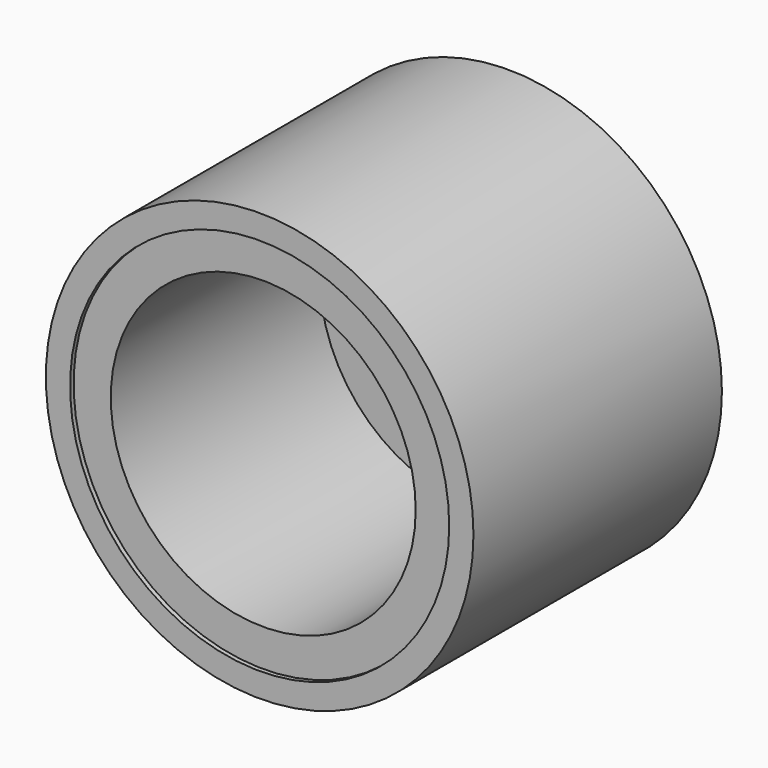
from build123d import *

# Parameters (mm, degrees)
F0_R      = 24.3051606916
F1_DEPTH  = 5.08
F2_R      = 24.3051606916
F2_R_2    = 21.5505163445
F5_DEPTH  = 2.286
F4_R      = 21.5505163445
F4_R_2    = 17.3332692352
F6_DEPTH  = 1.778
F3_R      = 6.0083606655
F7_DEPTH  = 1.27
F8_R      = 1.4809931101
F9_DEPTH  = 2.54
F10_R     = 2.7483891527
F11_DEPTH = 25.4
F12_DEPTH = 27.94


with BuildPart() as f1:
    # F0 (on Front) → F1 (new body)
    with BuildSketch(Plane.XZ):
        Circle(F0_R)
    extrude(amount=F1_DEPTH)

    # F2 (on face) → F5 (join)
    with BuildSketch(Plane.XZ.offset(5.08)):
        Circle(F2_R)
        Circle(F2_R_2, mode=Mode.SUBTRACT)
    extrude(amount=F5_DEPTH)

    # F4 (on face) → F6 (join)
    with BuildSketch(Plane.XZ.offset(5.08)):
        Circle(F4_R)
        Circle(F4_R_2, mode=Mode.SUBTRACT)
    extrude(amount=F6_DEPTH)

    # F3 (on face) → F7 (join)
    with BuildSketch(Plane.XZ.offset(5.08)):
        Circle(F3_R)
    extrude(amount=F7_DEPTH)

    # F8 (on face) → F9 (join)
    with BuildSketch(Plane.XZ.offset(6.35)):
        Circle(F8_R)
    extrude(amount=F9_DEPTH)

    # F10 (on face) → F11 (cut)
    with BuildSketch(Plane.XZ.offset(5.08)):
        with Locations((0, 10.771388188)):
            Circle(F10_R)
        with Locations((7.6165216305, 7.6165216305)):
            Circle(F10_R)
        with Locations((10.771388188, 0)):
            Circle(F10_R)
        with Locations((7.6165216305, -7.6165216305)):
            Circle(F10_R)
        with Locations((0, -10.771388188)):
            Circle(F10_R)
        with Locations((-7.6165216305, -7.6165216305)):
            Circle(F10_R)
        with Locations((-10.771388188, 0)):
            Circle(F10_R)
        with Locations((-7.6165216305, 7.6165216305)):
            Circle(F10_R)
    extrude(amount=-F11_DEPTH, mode=Mode.SUBTRACT)

    # F12 (add): faces of the model
    f12_faces = [f1.faces().sort_by_distance(p)[0] for p in [
        (-20.9409756947, -6.858, 0),
        (-23.6177069339, -7.366, 0),
    ]]
    extrude(f12_faces, amount=F12_DEPTH)


solid = f1.part
